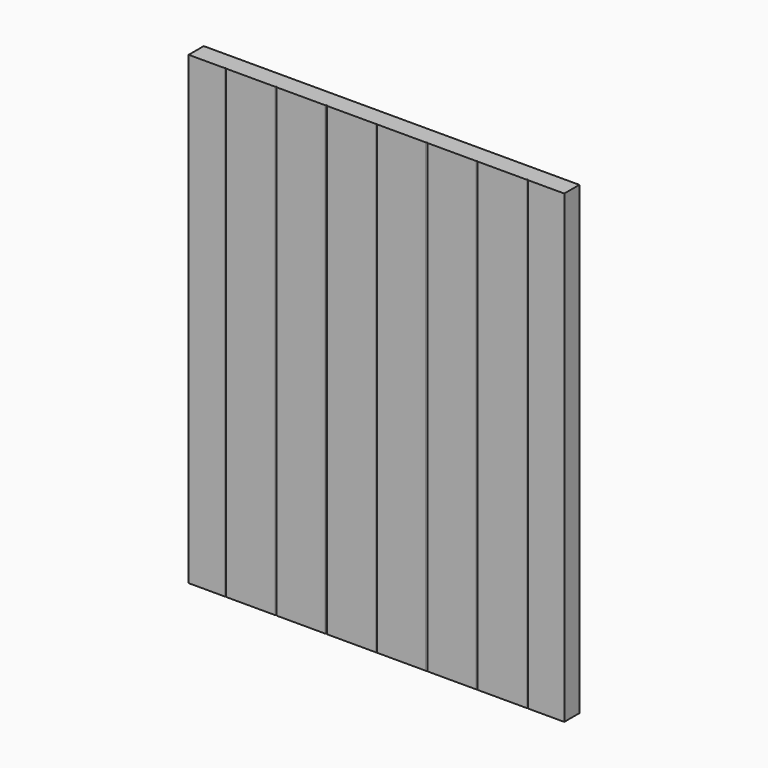
from build123d import *

# Parameters (mm, degrees)
F1_DEPTH = 469.9
F2_W     = 343.069662
F2_H     = 137.227848
F2_W_2   = 381
F2_H_2   = 195.285798
F3_DEPTH = 1143
F4_R     = 0.79375
F5_DEPTH = 25.4


with BuildPart() as f1:
    # F0 (on Top) → F1 (new body)
    with BuildSketch(Plane.XY):
        with BuildLine():
            Line((458.216, -9.525), (508, -9.525))
            Line((508, -9.525), (508, 9.525))
            Line((508, 9.525), (-508, 9.525))
            Line((-508, 9.525), (-508, -8.509))
            ThreePointArc((-508, -8.509), (-507.70242, -9.22742), (-506.984, -9.525))
            Line((-506.984, -9.525), (-458.216, -9.525))
            ThreePointArc((-458.216, -9.525), (-457.49758, -9.22742), (-457.2, -8.509))
            ThreePointArc((-457.2, -8.509), (-456.90242, -9.22742), (-456.184, -9.525))
            Line((-456.184, -9.525), (-407.416, -9.525))
            ThreePointArc((-407.416, -9.525), (-406.69758, -9.22742), (-406.4, -8.509))
            ThreePointArc((-406.4, -8.509), (-406.10242, -9.22742), (-405.384, -9.525))
            Line((-405.384, -9.525), (-356.616, -9.525))
            ThreePointArc((-356.616, -9.525), (-355.89758, -9.22742), (-355.6, -8.509))
            ThreePointArc((-355.6, -8.509), (-355.30242, -9.22742), (-354.584, -9.525))
            Line((-354.584, -9.525), (-305.816, -9.525))
            ThreePointArc((-305.816, -9.525), (-305.09758, -9.22742), (-304.8, -8.509))
            ThreePointArc((-304.8, -8.509), (-304.50242, -9.22742), (-303.784, -9.525))
            Line((-303.784, -9.525), (-255.016, -9.525))
            ThreePointArc((-255.016, -9.525), (-254.29758, -9.22742), (-254, -8.509))
            ThreePointArc((-254, -8.509), (-253.70242, -9.22742), (-252.984, -9.525))
            Line((-252.984, -9.525), (-204.216, -9.525))
            ThreePointArc((-204.216, -9.525), (-203.49758, -9.22742), (-203.2, -8.509))
            ThreePointArc((-203.2, -8.509), (-202.90242, -9.22742), (-202.184, -9.525))
            Line((-202.184, -9.525), (-153.416, -9.525))
            ThreePointArc((-153.416, -9.525), (-152.69758, -9.22742), (-152.4, -8.509))
            ThreePointArc((-152.4, -8.509), (-152.10242, -9.22742), (-151.384, -9.525))
            Line((-151.384, -9.525), (-102.616, -9.525))
            ThreePointArc((-102.616, -9.525), (-101.89758, -9.22742), (-101.6, -8.509))
            ThreePointArc((-101.6, -8.509), (-101.30242, -9.22742), (-100.584, -9.525))
            Line((-100.584, -9.525), (-51.816, -9.525))
            ThreePointArc((-51.816, -9.525), (-51.09758, -9.22742), (-50.8, -8.509))
            ThreePointArc((-50.8, -8.509), (-50.50242, -9.22742), (-49.784, -9.525))
            Line((-49.784, -9.525), (-1.016, -9.525))
            ThreePointArc((-1.016, -9.525), (-0.29758, -9.22742), (0, -8.509))
            ThreePointArc((0, -8.509), (0.29758, -9.22742), (1.016, -9.525))
            Line((1.016, -9.525), (49.784, -9.525))
            ThreePointArc((49.784, -9.525), (50.50242, -9.22742), (50.8, -8.509))
            ThreePointArc((50.8, -8.509), (51.09758, -9.22742), (51.816, -9.525))
            Line((51.816, -9.525), (100.584, -9.525))
            ThreePointArc((100.584, -9.525), (101.30242, -9.22742), (101.6, -8.509))
            ThreePointArc((101.6, -8.509), (101.89758, -9.22742), (102.616, -9.525))
            Line((102.616, -9.525), (151.384, -9.525))
            ThreePointArc((151.384, -9.525), (152.10242, -9.22742), (152.4, -8.509))
            ThreePointArc((152.4, -8.509), (152.69758, -9.22742), (153.416, -9.525))
            Line((153.416, -9.525), (202.184, -9.525))
            ThreePointArc((202.184, -9.525), (202.90242, -9.22742), (203.2, -8.509))
            ThreePointArc((203.2, -8.509), (203.49758, -9.22742), (204.216, -9.525))
            Line((204.216, -9.525), (252.984, -9.525))
            ThreePointArc((252.984, -9.525), (253.70242, -9.22742), (254, -8.509))
            ThreePointArc((254, -8.509), (254.29758, -9.22742), (255.016, -9.525))
            Line((255.016, -9.525), (303.784, -9.525))
            ThreePointArc((303.784, -9.525), (304.50242, -9.22742), (304.8, -8.509))
            ThreePointArc((304.8, -8.509), (305.09758, -9.22742), (305.816, -9.525))
            Line((305.816, -9.525), (354.584, -9.525))
            ThreePointArc((354.584, -9.525), (355.30242, -9.22742), (355.6, -8.509))
            ThreePointArc((355.6, -8.509), (355.89758, -9.22742), (356.616, -9.525))
            Line((356.616, -9.525), (405.384, -9.525))
            ThreePointArc((405.384, -9.525), (406.10242, -9.22742), (406.4, -8.509))
            ThreePointArc((406.4, -8.509), (406.69758, -9.22742), (407.416, -9.525))
            Line((407.416, -9.525), (456.184, -9.525))
            ThreePointArc((456.184, -9.525), (456.90242, -9.22742), (457.2, -8.509))
            ThreePointArc((457.2, -8.509), (457.49758, -9.22742), (458.216, -9.525))
        make_face()
        with BuildLine():
            ThreePointArc((-506.984, -9.525), (-507.70242, -9.22742), (-508, -8.509))
            Line((-508, -8.509), (-508, -9.525))
            Line((-508, -9.525), (-506.984, -9.525))
        make_face()
    extrude(amount=F1_DEPTH)

    # F2 (on Top) → F3 (cut)
    with BuildSketch(Plane.XY):
        with Locations((361.241081, -20.971623)):
            Rectangle(F2_W, F2_H)
        with Locations((-380.20625, -39.444607)):
            Rectangle(F2_W_2, F2_H_2)
    extrude(amount=F3_DEPTH, mode=Mode.SUBTRACT)

    # F4 (on Front) → F5 (cut)
    with BuildSketch(Plane.XZ):
        with Locations((180.975, 394.49375)):
            Circle(F4_R)
        with Locations((168.275, 382.5875)):
            Circle(F4_R)
        with Locations((180.975, 370.68125)):
            Circle(F4_R)
        with Locations((180.975, 99.21875)):
            Circle(F4_R)
        with Locations((168.275, 87.3125)):
            Circle(F4_R)
        with Locations((180.975, 75.40625)):
            Circle(F4_R)
    extrude(amount=-F5_DEPTH, mode=Mode.SUBTRACT)


solid = f1.part
